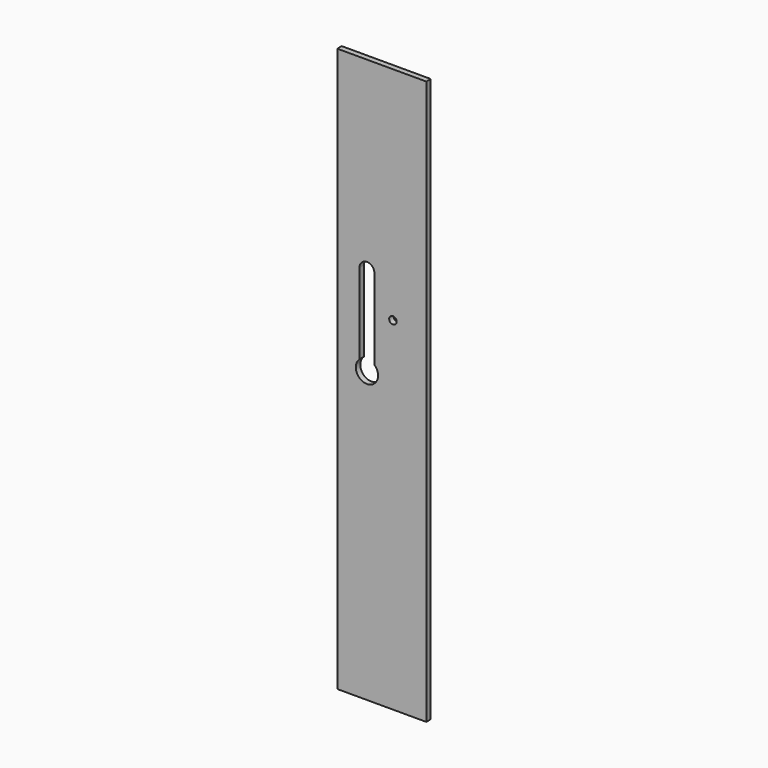
from build123d import *

# Parameters (mm, degrees)
F0_W     = 76.2
F0_H     = 482.6
F0_R     = 3.175
F1_DEPTH = 4.7625


with BuildPart() as f1:
    # F0 (on Front) → F1 (new body)
    with BuildSketch(Plane.XZ):
        with Locations((38.1, 241.3)):
            Rectangle(F0_W, F0_H)
        with BuildLine():
            ThreePointArc((31.75, 254.749516), (25.4, 238.125), (19.05, 254.749516))
            Line((19.05, 254.749516), (19.05, 323.85))
            ThreePointArc((19.05, 323.85), (25.4, 330.2), (31.75, 323.85))
            Line((31.75, 323.85), (31.75, 254.749516))
        make_face(mode=Mode.SUBTRACT)
        with Locations((47.625, 293.37)):
            Circle(F0_R, mode=Mode.SUBTRACT)
    extrude(amount=F1_DEPTH)


solid = f1.part
